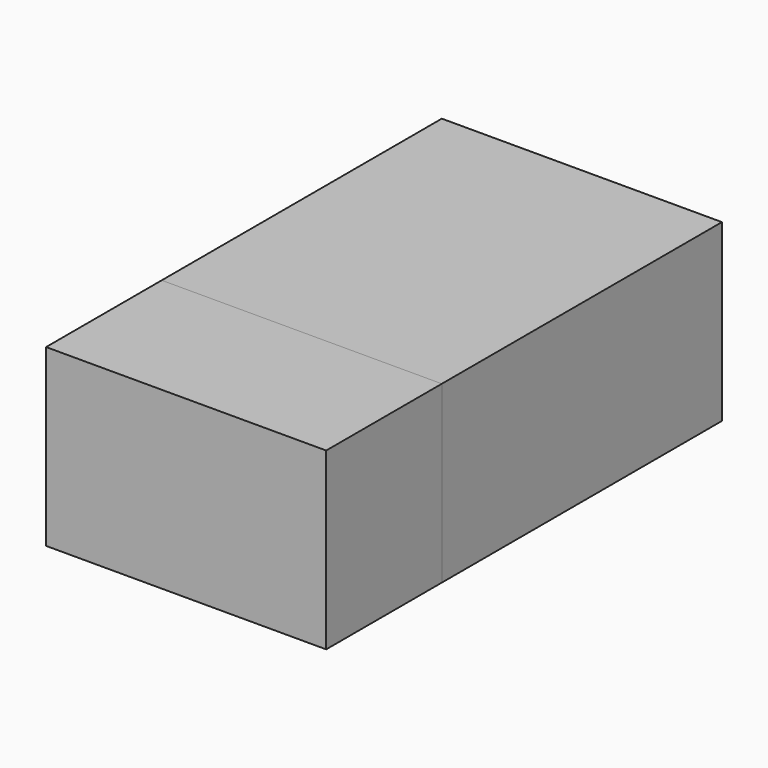
from build123d import *

# Parameters (mm, degrees)
F0_W     = 3200
F0_H     = 2000
F1_DEPTH = 1651.39
F2_DEPTH = 3000
F3_DEPTH = 3500
F4_DEPTH = 4000


with BuildPart() as f1:
    # F0 (on Front) → F1 (new body)
    with BuildSketch(Plane.XZ):
        Rectangle(F0_W, F0_H)
    extrude(amount=F1_DEPTH)


with BuildPart() as f2:
    # F0 (on Front) → F2 (new body)
    with BuildSketch(Plane.XZ):
        Rectangle(F0_W, F0_H)
    extrude(amount=-F2_DEPTH)


with BuildPart() as f3:
    # F0 (on Front) → F3 (new body)
    with BuildSketch(Plane.XZ):
        Rectangle(F0_W, F0_H)
    extrude(amount=-F3_DEPTH)


with BuildPart() as f4:
    # F0 (on Front) → F4 (new body)
    with BuildSketch(Plane.XZ):
        Rectangle(F0_W, F0_H)
    extrude(amount=-F4_DEPTH)


solid = Compound([f1.part, f2.part, f3.part, f4.part])
